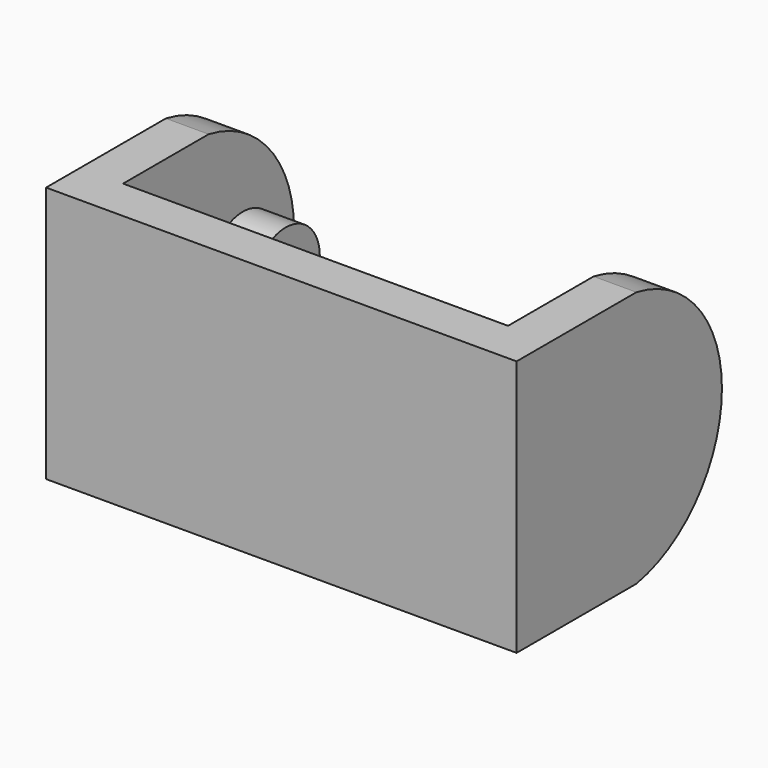
from build123d import *

# Parameters (mm, degrees)
F1_DEPTH = 60
F4_DEPTH = 10
F3_R     = 10
F5_DEPTH = 10
F6_DEPTH = 25
F7_DEPTH = 1000


with BuildPart() as f1:
    # F0 (on Top) → F1 (new body)
    with BuildSketch(Plane.XY):
        Polygon((0, -50), (0, 0), (-10, 0), (-10, -60), (100, -60), (100, 0), (90, 0), (90, -50), align=None)
    extrude(amount=F1_DEPTH)

    # F2 (on face) → F4 (join)
    with BuildSketch(Plane(origin=(90, 0, 0), x_dir=(0, -1, 0), z_dir=(-1, 0, 0))):
        with BuildLine():
            ThreePointArc((25, 30), (15, 40), (5, 30))
            ThreePointArc((5, 30), (15, 20), (25, 30))
        make_face()
    extrude(amount=F4_DEPTH)

    # F3 (on face) → F5 (join)
    with BuildSketch(Plane.YZ):
        with Locations((-15, 30)):
            Circle(F3_R)
    extrude(amount=F5_DEPTH)

    # F2 (on face) → F6 (cut)
    with BuildSketch(Plane(origin=(90, 0, 0), x_dir=(0, -1, 0), z_dir=(-1, 0, 0))):
        with BuildLine():
            Line((0, 60), (0, 30))
            ThreePointArc((0, 30), (7.0692509723, 49.5256241898), (25, 60))
            Line((25, 60), (0, 60))
        make_face()
        with BuildLine():
            Line((0, 30), (0, 0))
            Line((0, 0), (25, 0))
            ThreePointArc((25, 0), (7.0692509723, 10.4743758102), (0, 30))
        make_face()
    extrude(amount=-F6_DEPTH, mode=Mode.SUBTRACT)

    # F2 (on face) → F7 (cut)
    with BuildSketch(Plane(origin=(90, 0, 0), x_dir=(0, -1, 0), z_dir=(-1, 0, 0))):
        with BuildLine():
            Line((0, 60), (0, 30))
            ThreePointArc((0, 30), (7.0692509723, 49.5256241898), (25, 60))
            Line((25, 60), (0, 60))
        make_face()
        with BuildLine():
            Line((0, 30), (0, 0))
            Line((0, 0), (25, 0))
            ThreePointArc((25, 0), (7.0692509723, 10.4743758102), (0, 30))
        make_face()
    extrude(amount=F7_DEPTH, mode=Mode.SUBTRACT)


solid = f1.part
